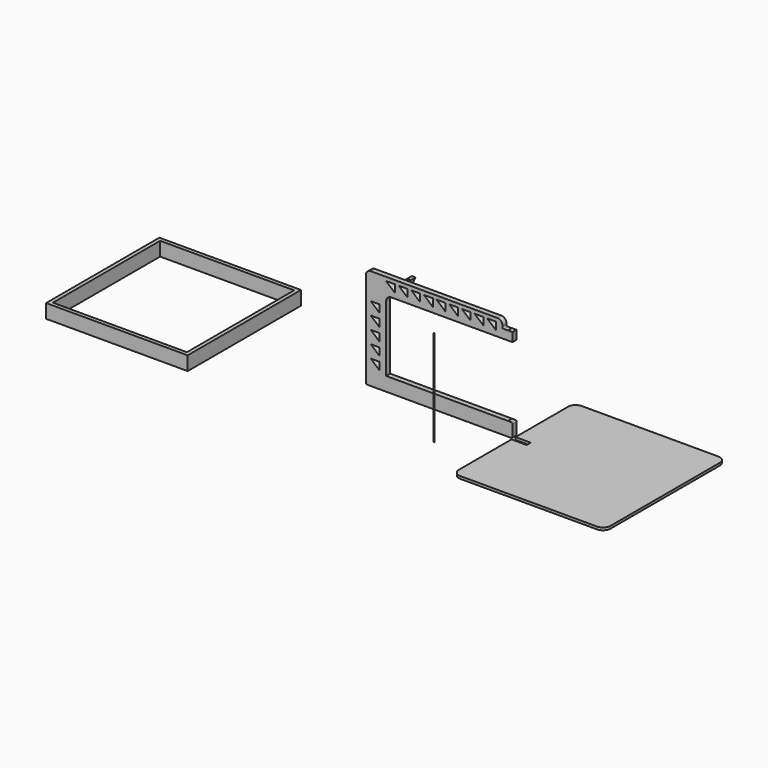
from build123d import *

# Parameters (mm, degrees)
F1_DEPTH  = 25.4
F2_R      = 25.4
F3_R      = 5.08
F4_R      = 25.4
F5_R      = 25.4
F6_R      = 5.08
F7_R      = 5.08
F9_DEPTH  = 25.401
F10_W     = 762
F10_H     = 762
F11_DEPTH = 12.7
F12_W     = 711.2
F12_H     = 711.2
F12_W_2   = 673.1
F12_H_2   = 673.1
F13_DEPTH = 69.85
F14_W     = 76.2
F14_H     = 25.4
F15_DEPTH = 25.4
F16_R     = 1.5875
F17_DEPTH = 469.901
F18_R     = 1.5875
F19_DEPTH = 482.6
F20_R     = 38.1
F22_DEPTH = 19.05
F23_R     = 6.170187
F24_DEPTH = 25.4


with BuildPart() as f1:
    # F0 (on Front) → F1 (new body)
    with BuildSketch(Plane.XZ):
        Polygon((0, 508), (0, 0), (736.6, 0), (736.6, 69.85), (101.6, 69.85), (101.6, 425.45), (736.6, 425.45), (736.6, 469.9), (685.8, 469.9), (685.8, 508), align=None)
    extrude(amount=F1_DEPTH)

    # F2
    f2_edges = [f1.edges().sort_by_distance(p)[0] for p in [
        (685.8, -12.7, 508),
    ]]
    fillet(f2_edges, radius=F2_R)

    # F3
    f3_edges = [f1.edges().sort_by_distance(p)[0] for p in [
        (685.8, -12.7, 469.9),
    ]]
    fillet(f3_edges, radius=F3_R)

    # F4
    f4_edges = [f1.edges().sort_by_distance(p)[0] for p in [
        (0, -12.7, 508),
    ]]
    fillet(f4_edges, radius=F4_R)

    # F5
    f5_edges = [f1.edges().sort_by_distance(p)[0] for p in [
        (101.6, -12.7, 425.45),
    ]]
    fillet(f5_edges, radius=F5_R)

    # F6
    f6_edges = [f1.edges().sort_by_distance(p)[0] for p in [
        (736.6, -12.7, 0),
        (736.6, -12.7, 69.85),
    ]]
    fillet(f6_edges, radius=F6_R)

    # F7
    f7_edges = [f1.edges().sort_by_distance(p)[0] for p in [
        (0, -12.7, 0),
    ]]
    fillet(f7_edges, radius=F7_R)

    # F8 (on face) → F9 (cut, through all)
    with BuildSketch(Plane.XZ.offset(25.4)):
        Polygon((145.637189, 451.454478), (145.637189, 489.554478), (101.450458, 489.554478), align=None)
        Polygon((209.137189, 451.454478), (209.137189, 489.554478), (164.950458, 489.554478), align=None)
        Polygon((272.637189, 451.454478), (272.637189, 489.554478), (228.450458, 489.554478), align=None)
        Polygon((336.137189, 451.454478), (336.137189, 489.554478), (291.950458, 489.554478), align=None)
        Polygon((399.637189, 451.454478), (399.637189, 489.554478), (355.450458, 489.554478), align=None)
        Polygon((463.137189, 451.454478), (463.137189, 489.554478), (418.950458, 489.554478), align=None)
        Polygon((526.637189, 451.454478), (526.637189, 489.554478), (482.450458, 489.554478), align=None)
        Polygon((653.637189, 451.454478), (653.637189, 489.554478), (609.450458, 489.554478), align=None)
        Polygon((590.137189, 451.454478), (590.137189, 489.554478), (545.950458, 489.554478), align=None)
        Polygon((68.834218, 337.42751), (68.834218, 375.52751), (24.647487, 375.52751), align=None)
        Polygon((24.647487, 312.02751), (68.834218, 273.92751), (68.834218, 312.02751), align=None)
        Polygon((24.647487, 248.52751), (68.834218, 210.42751), (68.834218, 248.52751), align=None)
        Polygon((24.647487, 185.02751), (68.834218, 146.92751), (68.834218, 185.02751), align=None)
        Polygon((24.647487, 121.52751), (68.834218, 83.42751), (68.834218, 121.52751), align=None)
    extrude(amount=-F9_DEPTH, mode=Mode.SUBTRACT)

    # F16 (on face) → F17 (cut, through all)
    with BuildSketch(Plane.XY.offset(469.9)):
        with Locations((713.74, -12.7)):
            Circle(F16_R)
    extrude(amount=-F17_DEPTH, mode=Mode.SUBTRACT)


with BuildPart() as f11:
    # F10 (on Top) → F11 (new body)
    with BuildSketch(Plane.XY):
        with Locations((1134.951833, -40.96593)):
            Rectangle(F10_W, F10_H)
    extrude(amount=F11_DEPTH)

    # F14 (on face) → F15 (cut)
    with BuildSketch(Plane.XY.offset(12.7)):
        with Locations((792.051833, -40.96593)):
            Rectangle(F14_W, F14_H)
    extrude(amount=-F15_DEPTH, mode=Mode.SUBTRACT)

    # F20
    f20_edges = [f11.edges().sort_by_distance(p)[0] for p in [
        (1515.951833, -421.96593, 6.35),
        (753.951833, -421.96593, 6.35),
        (1515.951833, 340.03407, 6.35),
        (753.951833, 340.03407, 6.35),
    ]]
    fillet(f20_edges, radius=F20_R)


with BuildPart() as f13:
    # F12 (on Top) → F13 (new body)
    with BuildSketch(Plane.XY):
        with Locations((-970.822424, -19.539969)):
            Rectangle(F12_W, F12_H)
        with Locations((-970.822424, -19.539969)):
            Rectangle(F12_W_2, F12_H_2, mode=Mode.SUBTRACT)
    extrude(amount=F13_DEPTH)


with BuildPart() as f19:
    # F18 (on Top) → F19 (new body)
    with BuildSketch(Plane.XY):
        with Locations((516.094208, -242.097676)):
            Circle(F18_R)
    extrude(amount=F19_DEPTH)


with BuildPart() as f22:
    # F21 (on Right) → F22 (new body)
    with BuildSketch(Plane.YZ):
        Polygon((243.190112, 341.366081), (263.08307, 361.259038), (199.58307, 361.259038), (199.58307, 297.759038), (217.790112, 315.966081), (217.790112, 341.366081), align=None)
    extrude(amount=F22_DEPTH)

    # F23 (on face) → F24 (cut)
    with BuildSketch(Plane(origin=(0, 0, 341.366081), x_dir=(1, 0, 0), z_dir=(0, 0, -1))):
        with Locations((9.525, -230.490112)):
            Circle(F23_R)
    extrude(amount=-F24_DEPTH, mode=Mode.SUBTRACT)


solid = Compound([f1.part, f11.part, f13.part, f19.part, f22.part])
